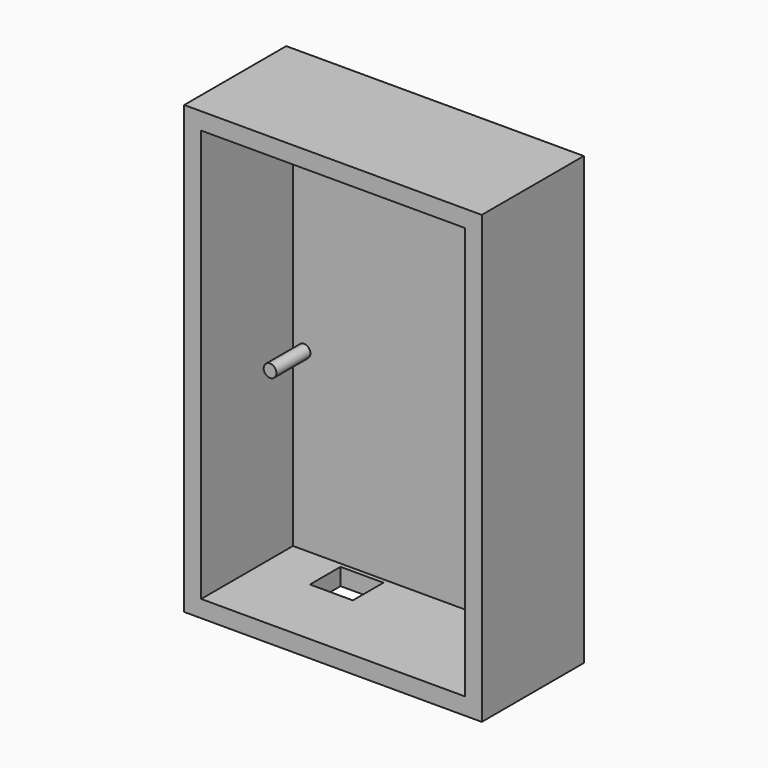
from build123d import *

# Parameters (mm, degrees)
F0_W     = 70
F0_H     = 105
F1_DEPTH = 30
F2_W     = 62
F2_H     = 97
F3_DEPTH = 27
F4_R     = 1.5
F5_DEPTH = 25
F6_DEPTH = 10
F7_W     = 10.1
F7_H     = 9
F8_DEPTH = 25
F9_DEPTH = 25


with BuildPart() as f1:
    # F0 (on Front) → F1 (new body)
    with BuildSketch(Plane.XZ):
        with Locations((35, 52.5)):
            Rectangle(F0_W, F0_H)
    extrude(amount=F1_DEPTH)

    # F2 (on face) → F3 (cut)
    with BuildSketch(Plane.XZ.offset(30)):
        with Locations((35, 52.5)):
            Rectangle(F2_W, F2_H)
    extrude(amount=-F3_DEPTH, mode=Mode.SUBTRACT)

    # F4 (on face) → F5 (cut)
    with BuildSketch(Plane.XZ.offset(3)):
        with Locations((24, 96)):
            Circle(F4_R)
        with Locations((51.9, 96)):
            Circle(F4_R)
        with Locations((6.5944148228, 45.2)):
            Circle(F4_R)
    extrude(amount=-F5_DEPTH, mode=Mode.SUBTRACT)

    # F7 (on face) → F8 (cut)
    with BuildSketch(Plane(origin=(0, 0, 0), x_dir=(1, 0, 0), z_dir=(0, 0, -1))):
        with Locations((21.05, 8.5319359787)):
            Rectangle(F7_W, F7_H)
    extrude(amount=-F8_DEPTH, mode=Mode.SUBTRACT)

    # F7 (on face) → F9 (cut)
    with BuildSketch(Plane(origin=(0, 0, 0), x_dir=(1, 0, 0), z_dir=(0, 0, -1))):
        with Locations((21.05, 8.5319359787)):
            Rectangle(F7_W, F7_H)
    extrude(amount=-F9_DEPTH, mode=Mode.SUBTRACT)


with BuildPart() as f6:
    # F4 (on face) → F6 (new body)
    with BuildSketch(Plane.XZ.offset(3)):
        with Locations((24, 96)):
            Circle(F4_R)
    extrude(amount=F6_DEPTH)


with BuildPart() as f6b:
    # F4 (on face) → F6, piece 2 (new body)
    with BuildSketch(Plane.XZ.offset(3)):
        with Locations((51.9, 96)):
            Circle(F4_R)
    extrude(amount=F6_DEPTH)


with BuildPart() as f6c:
    # F4 (on face) → F6, piece 3 (new body)
    with BuildSketch(Plane.XZ.offset(3)):
        with Locations((6.5944148228, 45.2)):
            Circle(F4_R)
    extrude(amount=F6_DEPTH)


solid = Compound([f1.part, f6.part, f6b.part, f6c.part])
